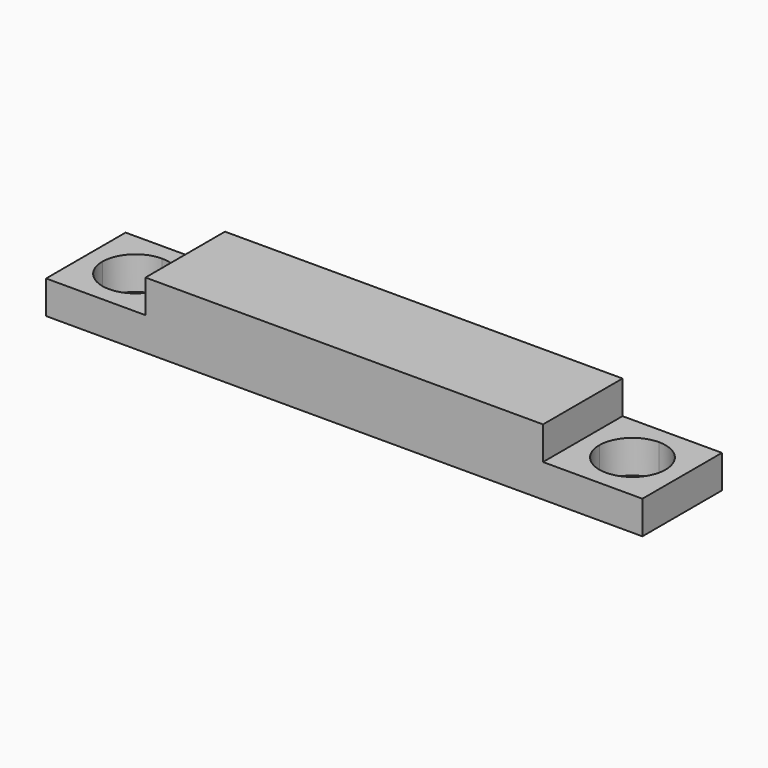
from build123d import *

# Parameters (mm, degrees)
F1_DEPTH = 30
F4_DEPTH = 25
F5_DEPTH = 25


with BuildPart() as f1:
    # F0 (on Front) → F1 (new body)
    with BuildSketch(Plane.XZ):
        Polygon((-91.375001, 38.374996), (-91.375001, 28.374996), (88.624999, 28.374996), (88.624999, 38.374996), (58.624999, 38.374996), (58.624999, 48.374996), (-61.375001, 48.374996), (-61.375001, 38.374996), align=None)
    extrude(amount=F1_DEPTH)

    # F2 (on face) → F4 (cut)
    with BuildSketch(Plane.XY.offset(38.374996)):
        with BuildLine():
            ThreePointArc((73.624999, -25), (80.696067, -22.071068), (83.624999, -15))
            ThreePointArc((83.624999, -15), (80.696067, -7.928932), (73.624999, -5))
            ThreePointArc((73.624999, -5), (66.553931, -7.928932), (63.624999, -15))
            ThreePointArc((63.624999, -15), (66.553931, -22.071068), (73.624999, -25))
        make_face()
    extrude(amount=-F4_DEPTH, mode=Mode.SUBTRACT)

    # F3 (on face) → F5 (cut)
    with BuildSketch(Plane.XY.offset(38.374996)):
        with BuildLine():
            ThreePointArc((-76.375001, -25), (-69.303933, -22.071068), (-66.375001, -15))
            ThreePointArc((-66.375001, -15), (-69.303933, -7.928932), (-76.375001, -5))
            ThreePointArc((-76.375001, -5), (-83.446069, -7.928932), (-86.375001, -15))
            ThreePointArc((-86.375001, -15), (-83.446069, -22.071068), (-76.375001, -25))
        make_face()
    extrude(amount=-F5_DEPTH, mode=Mode.SUBTRACT)


solid = f1.part
